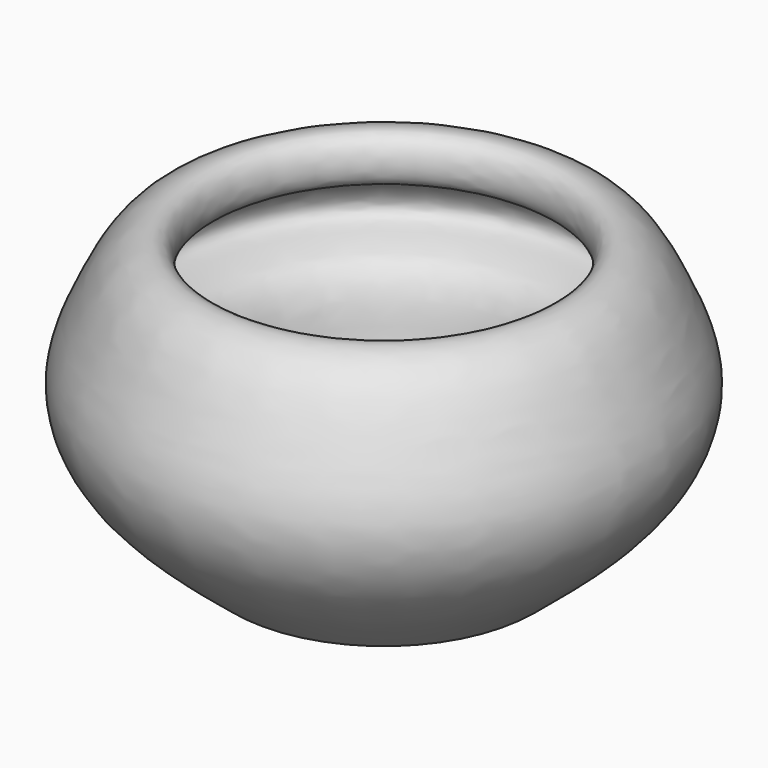
from build123d import *


with BuildPart() as f1:
    # F0 (on Front) → F1 (revolve)
    with BuildSketch(Plane.XZ):
        with BuildLine():
            Line((0, 10.1569071412), (0, 0))
            Line((0, 0), (28.1705763191, 0))
            add(Edge.make_bspline(
                [(28.1705763191, 0), (34.7868467334, 5.426727673), (46.3559056564, 14.9157794011), (50.6421175046, 29.2391882181), (45.8527174078, 40.5840506292), (40.0520108202, 52.0398060157), (30.7527757116, 53.992929609), (29.6184143454, 43.6465547785), (38.1670177615, 43.4647800965), (44.1131219328, 33.7699909789), (32.5696604692, 33.139304892), (29.4140319033, 23.9220619175), (29.6004807403, 15.7805147678), (20.4814688158, 8.0658819489), (12.3973070846, 11.102075573), (4.4309533152, 10.4947222141), (0, 10.1569071412)],
                knots=[0, 0, 0, 0, 0.109943915, 0.1922454118, 0.2705701282, 0.3510207546, 0.40896919, 0.4669176245, 0.5285397569, 0.5901618752, 0.6539265094, 0.7208187691, 0.7851753633, 0.8565630057, 0.9202191311, 1, 1, 1, 1], degree=3))
        make_face()
    revolve(axis=Axis((0, 0, 5.0784535706), (0, 0, 1)))


solid = f1.part
